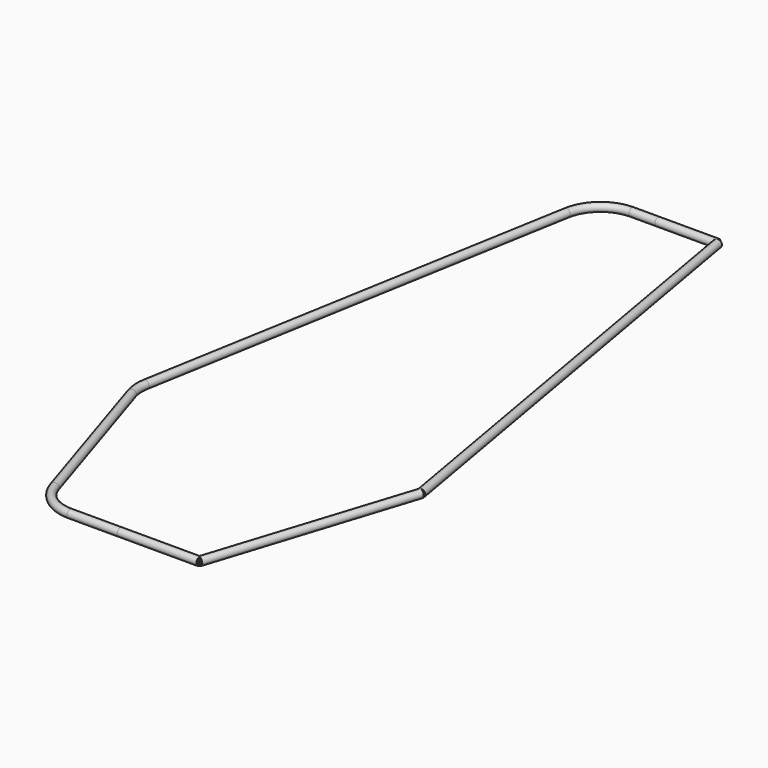
from build123d import *

# Parameters (mm, degrees)
F3_R         = 10
F3_R_2       = 8
F6_R         = 10
F6_R_2       = 8
F9_R         = 10
F9_R_2       = 8
F1_R         = 10
F1_R_2       = 8
F10_FACE_R   = 10
F10_FACE_R_2 = 8


with BuildPart() as f4:
    # F4: sweep along a path in F0
    with BuildLine(Plane.XY) as f4_path:
        Line((150, 800), (360, -400))
    # F3 (on line) → F4 (sweep)
    with BuildSketch(Plane(origin=(78.6173438448, -449.2419648272, 0), x_dir=(0.9850304672, 0.1723803318, 0), z_dir=(0.1723803318, -0.9850304672, 0))):
        with Locations((285.6588354752, 0)):
            Circle(F3_R)
        with Locations((285.6588354752, 0)):
            Circle(F3_R_2, mode=Mode.SUBTRACT)
    sweep(path=f4_path.line)


with BuildPart() as f7:
    # F7: sweep along a path in F0
    with BuildLine(Plane.XY) as f7_path:
        Line((360, -400), (200, -900))
    # F6 (on line) → F7 (sweep)
    with BuildSketch(Plane(origin=(-242.6705370102, -758.3454281567, 0), x_dir=(0.9524241472, -0.3047757271, 0), z_dir=(-0.3047757271, -0.9524241472, 0))):
        with Locations((464.7829838333, 0)):
            Circle(F6_R)
        with Locations((464.7829838333, 0)):
            Circle(F6_R_2, mode=Mode.SUBTRACT)
    sweep(path=f7_path.line)


with BuildPart() as f10:
    # F10: sweep along a path in F0
    with BuildLine(Plane.XY) as f10_path:
        Line((200, -900), (0, -900))
    # F9 (on line) → F10 (sweep)
    with BuildSketch(Plane(origin=(0, 0, 0), x_dir=(0, -1, 0), z_dir=(-1, 0, 0))):
        with Locations((900, 0)):
            Circle(F9_R)
        with Locations((900, 0)):
            Circle(F9_R_2, mode=Mode.SUBTRACT)
    sweep(path=f10_path.line)


with BuildPart() as f11:
    # F11: sweep along a path in F0
    with BuildLine(Plane.XY) as f11_path:
        Line((0, 800), (150, 800))
    # F1 (on Right) → F11 (sweep)
    with BuildSketch(Plane.YZ):
        with Locations((800, 0)):
            Circle(F1_R)
        with Locations((800, 0)):
            Circle(F1_R_2, mode=Mode.SUBTRACT)
    sweep(path=f11_path.line)


with BuildPart() as f12:
    # F12: sweep along a path in F0
    with BuildLine(Plane.XY) as f12_path:
        Line((0, -900), (-127.0047620127, -900))
        ThreePointArc((-127.0047620127, -900), (-185.9634031477, -880.7705307369), (-222.2471767327, -830.4775727104))
        Line((-222.2471767327, -830.4775727104), (-352.493987539, -423.4562889406))
        ThreePointArc((-352.493987539, -423.4562889406), (-357.0189057391, -399.7962877941), (-355.7546195346, -375.740683055))
        Line((-355.7546195346, -375.740683055), (-164.4833441943, 717.2380331752))
        ThreePointArc((-164.4833441943, 717.2380331752), (-130.3083500005, 776.5630567491), (-65.9802974788, 800))
        Line((-65.9802974788, 800), (0, 800))
    # F10_face (on face) → F12 (sweep)
    with BuildSketch(Plane(origin=(0, -900, 0), x_dir=(0, -1, 0), z_dir=(-1, 0, 0))):
        Circle(F10_FACE_R)
        Circle(F10_FACE_R_2, mode=Mode.SUBTRACT)
    sweep(path=f12_path.line)


solid = Compound([f4.part, f7.part, f10.part, f11.part, f12.part])
